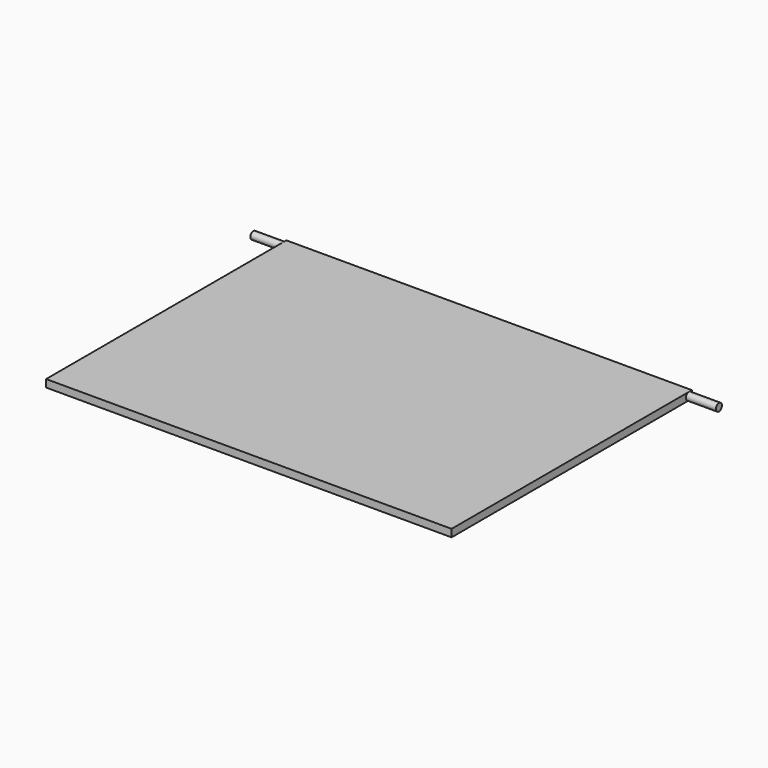
from build123d import *

# Parameters (mm, degrees)
SKETCH_W     = 27
SKETCH_H     = 40
PAD_DEPTH    = 1
SKETCH001_R  = 0.5
PAD001_DEPTH = 4


with BuildPart() as part:
    # Sketch → Pad (new body)
    with BuildSketch(Plane.XY):
        with Locations((-13.5, 20)):
            Rectangle(SKETCH_W, SKETCH_H)
    extrude(amount=PAD_DEPTH)

    # Sketch001 (on Face4 of Pad) → Pad001 (join)
    with BuildSketch(Plane(origin=(-27, 0, 0), x_dir=(0, -1, 0), z_dir=(-1, 0, 0))):
        with Locations((-39.5, 0.5)):
            Circle(SKETCH001_R)
    extrude(amount=PAD001_DEPTH)

    # Mirrored: part across YZ


with BuildPart() as part_1:
    add(part.part)
    add(part.part.mirror(Plane.YZ))


solid = part_1.part
